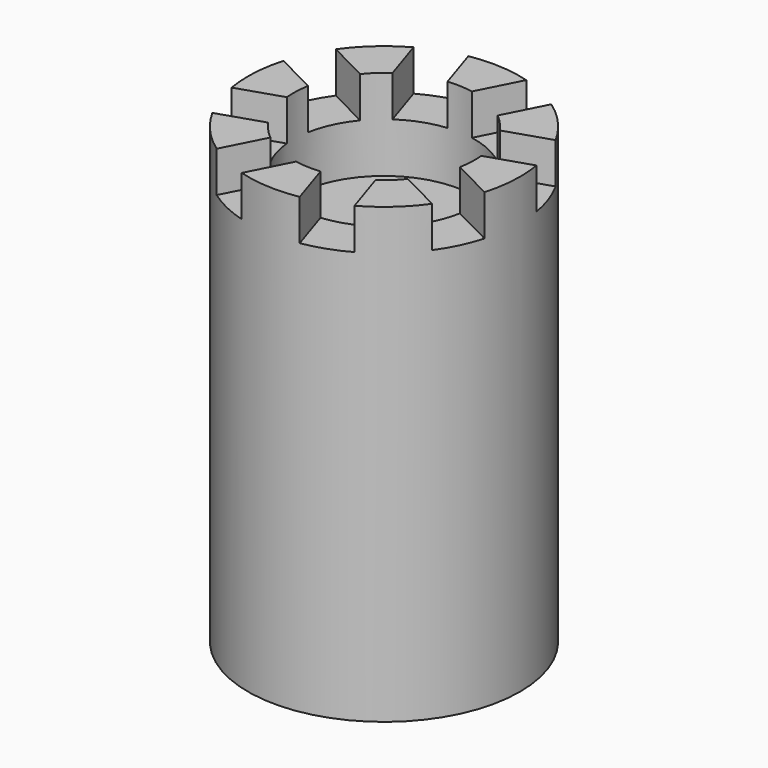
from build123d import *

# Parameters (mm, degrees)
BOX_W               = 20
BOX_H               = 10
BOX_DEPTH           = 10
BOX_PLACEMENT_ANGLE = 18
ARRAY_COUNT         = 8
CYLINDER001_R       = 20
CYLINDER001_DEPTH   = 20
CYLINDER_R          = 30
CYLINDER_DEPTH      = 100


with BuildPart() as rectangles:
    # Box → Box (new body)
    with BuildSketch(Plane.XY):
        with Locations((10, 5)):
            Rectangle(BOX_W, BOX_H)
    extrude(amount=BOX_DEPTH)


with BuildPart() as rectangles_1:
    # Box placement: moved
    add(rectangles.part.moved(Location((14, 0, 91))).rotate(Axis((14, 0, 91), (0, 0, 1)), BOX_PLACEMENT_ANGLE))

    # Array: Rectangles ×8 about axis
    array_axis = Axis((0, 0, 0), (0, 0, 1))


with BuildPart() as rectangles_2:
    add(rectangles_1.part)
    for i in range(1, ARRAY_COUNT):
        add(rectangles_1.part.rotate(array_axis, i * 360 / ARRAY_COUNT))


with BuildPart() as cilindre001:
    # Cylinder001 → Cylinder001 (new body)
    with BuildSketch(Plane.XY.offset(80)):
        Circle(CYLINDER001_R)
    extrude(amount=CYLINDER001_DEPTH)


with BuildPart() as obj1:
    # Cylinder → Cylinder (new body)
    with BuildSketch(Plane.XY):
        Circle(CYLINDER_R)
    extrude(amount=CYLINDER_DEPTH)

    # Cut: cut Cilindre001
    add(cilindre001.part, mode=Mode.SUBTRACT)

    # Cut001: cut Rectangles
    add(rectangles_2.part, mode=Mode.SUBTRACT)


solid = obj1.part
